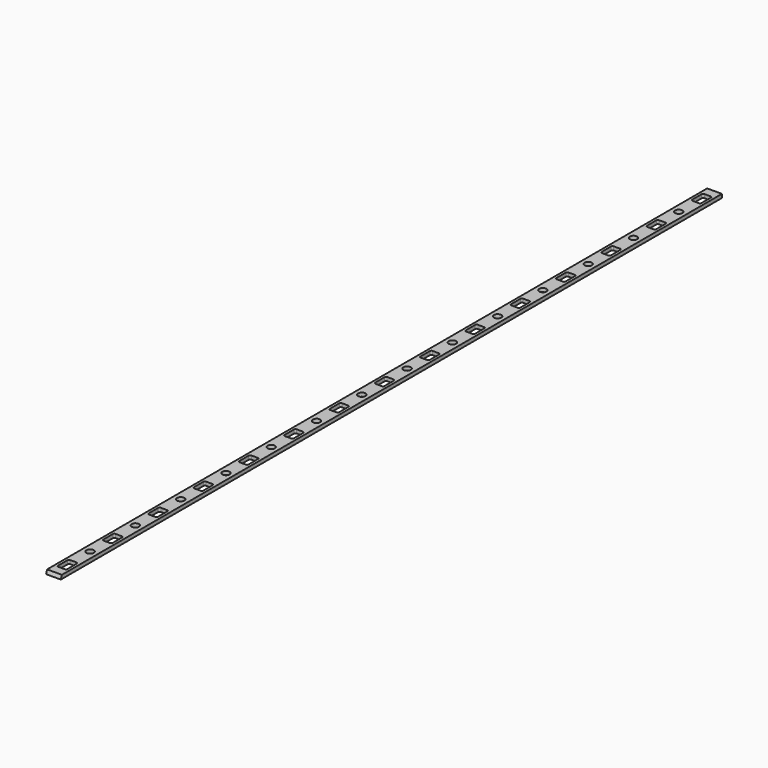
from build123d import *

# Parameters (mm, degrees)
F1_DEPTH = 12.7
F3_DEPTH = 3.175
F4_R     = 3.175
F5_DEPTH = 3.175


with BuildPart() as f1:
    # F0 (on Right) → F1 (new body)
    with BuildSketch(Plane.YZ):
        Polygon((1.128881, 3.175), (0, 0), (712.328881, 0), (712.328881, 3.175), align=None)
    extrude(amount=-F1_DEPTH)

    # F2 (on face) → F3 (cut, through all)
    with BuildSketch(Plane.XY.offset(3.175)):
        with BuildLine():
            Line((-9.0805, 8.748881), (-3.6195, 8.748881))
            ThreePointArc((-3.6195, 8.748881), (-2.721474, 9.120855), (-2.3495, 10.018881))
            Line((-2.3495, 10.018881), (-2.3495, 20.178881))
            ThreePointArc((-2.3495, 20.178881), (-2.721474, 21.076907), (-3.6195, 21.448881))
            Line((-3.6195, 21.448881), (-9.0805, 21.448881))
            ThreePointArc((-9.0805, 21.448881), (-9.978526, 21.076907), (-10.3505, 20.178881))
            Line((-10.3505, 20.178881), (-10.3505, 10.018881))
            ThreePointArc((-10.3505, 10.018881), (-9.978526, 9.120855), (-9.0805, 8.748881))
        make_face()
        with BuildLine():
            Line((-9.0805, 57.55244), (-3.6195, 57.55244))
            ThreePointArc((-3.6195, 57.55244), (-2.721474, 57.924414), (-2.3495, 58.82244))
            Line((-2.3495, 58.82244), (-2.3495, 68.98244))
            ThreePointArc((-2.3495, 68.98244), (-2.721474, 69.880465), (-3.6195, 70.25244))
            Line((-3.6195, 70.25244), (-9.0805, 70.25244))
            ThreePointArc((-9.0805, 70.25244), (-9.978526, 69.880465), (-10.3505, 68.98244))
            Line((-10.3505, 68.98244), (-10.3505, 58.82244))
            ThreePointArc((-10.3505, 58.82244), (-9.978526, 57.924414), (-9.0805, 57.55244))
        make_face()
        with BuildLine():
            Line((-9.0805, 106.355999), (-3.6195, 106.355999))
            ThreePointArc((-3.6195, 106.355999), (-2.721474, 106.727973), (-2.3495, 107.625999))
            Line((-2.3495, 107.625999), (-2.3495, 117.785999))
            ThreePointArc((-2.3495, 117.785999), (-2.721474, 118.684024), (-3.6195, 119.055999))
            Line((-3.6195, 119.055999), (-9.0805, 119.055999))
            ThreePointArc((-9.0805, 119.055999), (-9.978526, 118.684024), (-10.3505, 117.785999))
            Line((-10.3505, 117.785999), (-10.3505, 107.625999))
            ThreePointArc((-10.3505, 107.625999), (-9.978526, 106.727973), (-9.0805, 106.355999))
        make_face()
        with BuildLine():
            Line((-9.0805, 155.159557), (-3.6195, 155.159557))
            ThreePointArc((-3.6195, 155.159557), (-2.721474, 155.531532), (-2.3495, 156.429557))
            Line((-2.3495, 156.429557), (-2.3495, 166.589557))
            ThreePointArc((-2.3495, 166.589557), (-2.721474, 167.487583), (-3.6195, 167.859557))
            Line((-3.6195, 167.859557), (-9.0805, 167.859557))
            ThreePointArc((-9.0805, 167.859557), (-9.978526, 167.487583), (-10.3505, 166.589557))
            Line((-10.3505, 166.589557), (-10.3505, 156.429557))
            ThreePointArc((-10.3505, 156.429557), (-9.978526, 155.531532), (-9.0805, 155.159557))
        make_face()
        with BuildLine():
            Line((-9.0805, 203.963116), (-3.6195, 203.963116))
            ThreePointArc((-3.6195, 203.963116), (-2.721474, 204.33509), (-2.3495, 205.233116))
            Line((-2.3495, 205.233116), (-2.3495, 215.393116))
            ThreePointArc((-2.3495, 215.393116), (-2.721474, 216.291142), (-3.6195, 216.663116))
            Line((-3.6195, 216.663116), (-9.0805, 216.663116))
            ThreePointArc((-9.0805, 216.663116), (-9.978526, 216.291142), (-10.3505, 215.393116))
            Line((-10.3505, 215.393116), (-10.3505, 205.233116))
            ThreePointArc((-10.3505, 205.233116), (-9.978526, 204.33509), (-9.0805, 203.963116))
        make_face()
        with BuildLine():
            Line((-9.0805, 252.766675), (-3.6195, 252.766675))
            ThreePointArc((-3.6195, 252.766675), (-2.721474, 253.138649), (-2.3495, 254.036675))
            Line((-2.3495, 254.036675), (-2.3495, 264.196675))
            ThreePointArc((-2.3495, 264.196675), (-2.721474, 265.0947), (-3.6195, 265.466675))
            Line((-3.6195, 265.466675), (-9.0805, 265.466675))
            ThreePointArc((-9.0805, 265.466675), (-9.978526, 265.0947), (-10.3505, 264.196675))
            Line((-10.3505, 264.196675), (-10.3505, 254.036675))
            ThreePointArc((-10.3505, 254.036675), (-9.978526, 253.138649), (-9.0805, 252.766675))
        make_face()
        with BuildLine():
            Line((-9.0805, 301.570234), (-3.6195, 301.570234))
            ThreePointArc((-3.6195, 301.570234), (-2.721474, 301.942208), (-2.3495, 302.840234))
            Line((-2.3495, 302.840234), (-2.3495, 313.000234))
            ThreePointArc((-2.3495, 313.000234), (-2.721474, 313.898259), (-3.6195, 314.270234))
            Line((-3.6195, 314.270234), (-9.0805, 314.270234))
            ThreePointArc((-9.0805, 314.270234), (-9.978526, 313.898259), (-10.3505, 313.000234))
            Line((-10.3505, 313.000234), (-10.3505, 302.840234))
            ThreePointArc((-10.3505, 302.840234), (-9.978526, 301.942208), (-9.0805, 301.570234))
        make_face()
        with BuildLine():
            Line((-9.0805, 350.373792), (-3.6195, 350.373792))
            ThreePointArc((-3.6195, 350.373792), (-2.721474, 350.745767), (-2.3495, 351.643792))
            Line((-2.3495, 351.643792), (-2.3495, 361.803792))
            ThreePointArc((-2.3495, 361.803792), (-2.721474, 362.701818), (-3.6195, 363.073792))
            Line((-3.6195, 363.073792), (-9.0805, 363.073792))
            ThreePointArc((-9.0805, 363.073792), (-9.978526, 362.701818), (-10.3505, 361.803792))
            Line((-10.3505, 361.803792), (-10.3505, 351.643792))
            ThreePointArc((-10.3505, 351.643792), (-9.978526, 350.745767), (-9.0805, 350.373792))
        make_face()
        with BuildLine():
            Line((-9.0805, 399.177351), (-3.6195, 399.177351))
            ThreePointArc((-3.6195, 399.177351), (-2.721474, 399.549325), (-2.3495, 400.447351))
            Line((-2.3495, 400.447351), (-2.3495, 410.607351))
            ThreePointArc((-2.3495, 410.607351), (-2.721474, 411.505377), (-3.6195, 411.877351))
            Line((-3.6195, 411.877351), (-9.0805, 411.877351))
            ThreePointArc((-9.0805, 411.877351), (-9.978526, 411.505377), (-10.3505, 410.607351))
            Line((-10.3505, 410.607351), (-10.3505, 400.447351))
            ThreePointArc((-10.3505, 400.447351), (-9.978526, 399.549325), (-9.0805, 399.177351))
        make_face()
        with BuildLine():
            Line((-9.0805, 447.98091), (-3.6195, 447.98091))
            ThreePointArc((-3.6195, 447.98091), (-2.721474, 448.352884), (-2.3495, 449.25091))
            Line((-2.3495, 449.25091), (-2.3495, 459.41091))
            ThreePointArc((-2.3495, 459.41091), (-2.721474, 460.308935), (-3.6195, 460.68091))
            Line((-3.6195, 460.68091), (-9.0805, 460.68091))
            ThreePointArc((-9.0805, 460.68091), (-9.978526, 460.308935), (-10.3505, 459.41091))
            Line((-10.3505, 459.41091), (-10.3505, 449.25091))
            ThreePointArc((-10.3505, 449.25091), (-9.978526, 448.352884), (-9.0805, 447.98091))
        make_face()
        with BuildLine():
            Line((-9.0805, 496.784469), (-3.6195, 496.784469))
            ThreePointArc((-3.6195, 496.784469), (-2.721474, 497.156443), (-2.3495, 498.054469))
            Line((-2.3495, 498.054469), (-2.3495, 508.214469))
            ThreePointArc((-2.3495, 508.214469), (-2.721474, 509.112494), (-3.6195, 509.484469))
            Line((-3.6195, 509.484469), (-9.0805, 509.484469))
            ThreePointArc((-9.0805, 509.484469), (-9.978526, 509.112494), (-10.3505, 508.214469))
            Line((-10.3505, 508.214469), (-10.3505, 498.054469))
            ThreePointArc((-10.3505, 498.054469), (-9.978526, 497.156443), (-9.0805, 496.784469))
        make_face()
        with BuildLine():
            Line((-9.0805, 545.588027), (-3.6195, 545.588027))
            ThreePointArc((-3.6195, 545.588027), (-2.721474, 545.960002), (-2.3495, 546.858027))
            Line((-2.3495, 546.858027), (-2.3495, 557.018027))
            ThreePointArc((-2.3495, 557.018027), (-2.721474, 557.916053), (-3.6195, 558.288027))
            Line((-3.6195, 558.288027), (-9.0805, 558.288027))
            ThreePointArc((-9.0805, 558.288027), (-9.978526, 557.916053), (-10.3505, 557.018027))
            Line((-10.3505, 557.018027), (-10.3505, 546.858027))
            ThreePointArc((-10.3505, 546.858027), (-9.978526, 545.960002), (-9.0805, 545.588027))
        make_face()
        with BuildLine():
            Line((-9.0805, 594.391586), (-3.6195, 594.391586))
            ThreePointArc((-3.6195, 594.391586), (-2.721474, 594.76356), (-2.3495, 595.661586))
            Line((-2.3495, 595.661586), (-2.3495, 605.821586))
            ThreePointArc((-2.3495, 605.821586), (-2.721474, 606.719612), (-3.6195, 607.091586))
            Line((-3.6195, 607.091586), (-9.0805, 607.091586))
            ThreePointArc((-9.0805, 607.091586), (-9.978526, 606.719612), (-10.3505, 605.821586))
            Line((-10.3505, 605.821586), (-10.3505, 595.661586))
            ThreePointArc((-10.3505, 595.661586), (-9.978526, 594.76356), (-9.0805, 594.391586))
        make_face()
        with BuildLine():
            Line((-9.0805, 643.195145), (-3.6195, 643.195145))
            ThreePointArc((-3.6195, 643.195145), (-2.721474, 643.567119), (-2.3495, 644.465145))
            Line((-2.3495, 644.465145), (-2.3495, 654.625145))
            ThreePointArc((-2.3495, 654.625145), (-2.721474, 655.52317), (-3.6195, 655.895145))
            Line((-3.6195, 655.895145), (-9.0805, 655.895145))
            ThreePointArc((-9.0805, 655.895145), (-9.978526, 655.52317), (-10.3505, 654.625145))
            Line((-10.3505, 654.625145), (-10.3505, 644.465145))
            ThreePointArc((-10.3505, 644.465145), (-9.978526, 643.567119), (-9.0805, 643.195145))
        make_face()
        with BuildLine():
            Line((-9.0805, 691.998704), (-3.6195, 691.998704))
            ThreePointArc((-3.6195, 691.998704), (-2.721474, 692.370678), (-2.3495, 693.268704))
            Line((-2.3495, 693.268704), (-2.3495, 703.428704))
            ThreePointArc((-2.3495, 703.428704), (-2.721474, 704.326729), (-3.6195, 704.698704))
            Line((-3.6195, 704.698704), (-9.0805, 704.698704))
            ThreePointArc((-9.0805, 704.698704), (-9.978526, 704.326729), (-10.3505, 703.428704))
            Line((-10.3505, 703.428704), (-10.3505, 693.268704))
            ThreePointArc((-10.3505, 693.268704), (-9.978526, 692.370678), (-9.0805, 691.998704))
        make_face()
    extrude(amount=-F3_DEPTH, mode=Mode.SUBTRACT)

    # F4 (on face) → F5 (cut, through all)
    with BuildSketch(Plane.XY.offset(3.175)):
        with Locations((-6.35, 39.50066)):
            Circle(F4_R)
        with Locations((-6.35, 88.294061)):
            Circle(F4_R)
        with Locations((-6.35, 137.087461)):
            Circle(F4_R)
        with Locations((-6.35, 185.880861)):
            Circle(F4_R)
        with Locations((-6.35, 234.674261)):
            Circle(F4_R)
        with Locations((-6.35, 283.467661)):
            Circle(F4_R)
        with Locations((-6.35, 332.261061)):
            Circle(F4_R)
        with Locations((-6.35, 381.054461)):
            Circle(F4_R)
        with Locations((-6.35, 429.847861)):
            Circle(F4_R)
        with Locations((-6.35, 478.641261)):
            Circle(F4_R)
        with Locations((-6.35, 527.434661)):
            Circle(F4_R)
        with Locations((-6.35, 576.228061)):
            Circle(F4_R)
        with Locations((-6.35, 625.021462)):
            Circle(F4_R)
        with Locations((-6.35, 673.814862)):
            Circle(F4_R)
    extrude(amount=-F5_DEPTH, mode=Mode.SUBTRACT)


solid = f1.part
